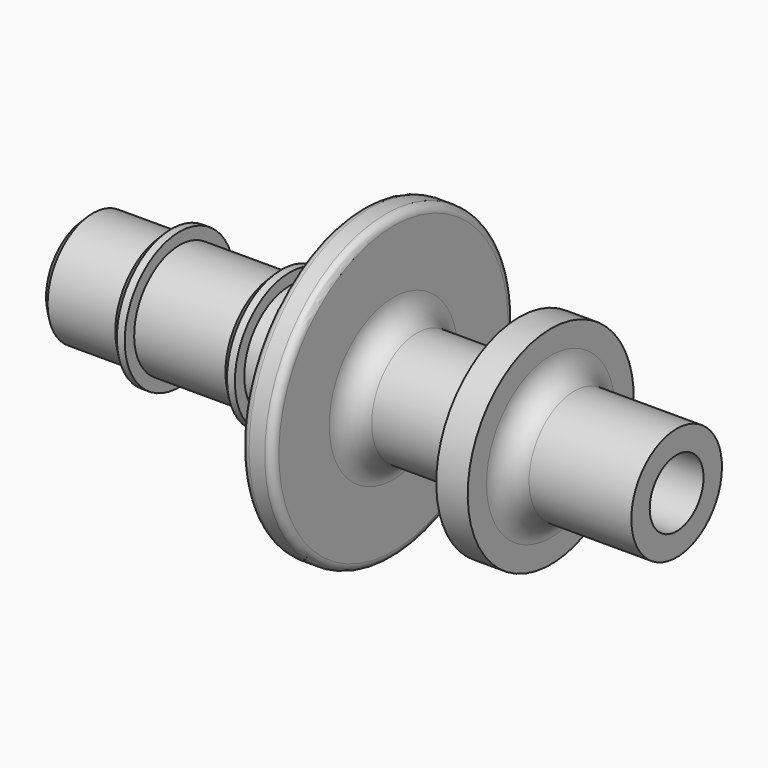
from build123d import *

# Parameters (mm, degrees)
F2_SIZE = 0.5


with BuildPart() as f1:
    # F0 (on Front) → F1 (revolve)
    with BuildSketch(Plane.XZ):
        with BuildLine():
            Line((-18.8, 3.6), (-18.8, 2.137717))
            Line((-18.8, 2.137717), (18.8, 2.137717))
            Line((18.8, 2.137717), (18.8, 3.6))
            Line((18.8, 3.6), (12.3, 3.6))
            ThreePointArc((12.3, 3.6), (11.23934, 4.03934), (10.8, 5.1))
            Line((10.8, 5.1), (10.8, 6.6))
            Line((10.8, 6.6), (8.8, 6.6))
            Line((8.8, 6.6), (8.8, 5.1))
            ThreePointArc((8.8, 5.1), (8.36066, 4.03934), (7.3, 3.6))
            Line((7.3, 3.6), (2.3, 3.6))
            ThreePointArc((2.3, 3.6), (1.23934, 4.03934), (0.8, 5.1))
            Line((0.8, 5.1), (0.8, 9.1))
            ThreePointArc((0.8, 9.1), (0.653553, 9.453553), (0.3, 9.6))
            Line((0.3, 9.6), (-0.7, 9.6))
            ThreePointArc((-0.7, 9.6), (-1.053553, 9.453553), (-1.2, 9.1))
            Line((-1.2, 9.1), (-1.2, 5.1))
            ThreePointArc((-1.2, 5.1), (-1.63934, 4.03934), (-2.7, 3.6))
            Line((-2.7, 3.6), (-5.8, 3.6))
            Line((-5.8, 3.6), (-5.8, 4.35))
            Line((-5.8, 4.35), (-6.8, 4.35))
            Line((-6.8, 4.35), (-6.8, 3.6))
            Line((-6.8, 3.6), (-12.8, 3.6))
            Line((-12.8, 3.6), (-12.8, 4.35))
            Line((-12.8, 4.35), (-13.8, 4.35))
            Line((-13.8, 4.35), (-13.8, 3.6))
            Line((-13.8, 3.6), (-18.8, 3.6))
        make_face()
    revolve(axis=Axis((0, 0, 0), (1, 0, 0)))

    # F2
    f2_edges = [f1.edges().sort_by_distance(p)[0] for p in [
        (-18.8, 0, -3.6),
        (-13.8, 0, -4.35),
        (-6.8, 0, -4.35),
    ]]
    chamfer(f2_edges, length=F2_SIZE)


solid = f1.part
